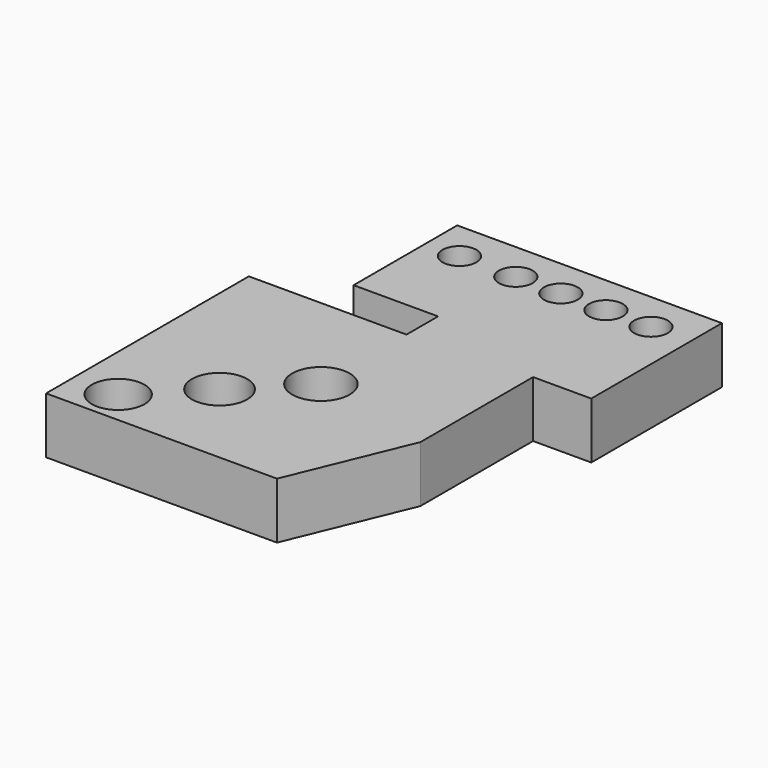
from build123d import *

# Parameters (mm, degrees)
F0_R     = 11.69535
F0_R_2   = 12.274467
F0_R_3   = 12.758653
F0_R_4   = 7.5
F1_DEPTH = 25


with BuildPart() as f1:
    # F0 (on Top) → F1 (new body)
    with BuildSketch(Plane.XY):
        Polygon((-70, 57.431057), (-70, -55.068943), (32.5, -55.068943), (54.177546, -2.568943), (54.177546, 59.931057), (80, 59.931057), (80, 132.431057), (-37.5, 132.431057), (-37.5, 74.931057), (0, 74.931057), (0, 57.431057), align=None)
        with Locations((-50, -40.068943)):
            Circle(F0_R, mode=Mode.SUBTRACT)
        with Locations((-25, -15.068943)):
            Circle(F0_R_2, mode=Mode.SUBTRACT)
        with Locations((0, 9.931057)):
            Circle(F0_R_3, mode=Mode.SUBTRACT)
        with Locations((-22.5, 114.931057)):
            Circle(F0_R_4, mode=Mode.SUBTRACT)
        with Locations((2.5, 114.931057)):
            Circle(F0_R_4, mode=Mode.SUBTRACT)
        with Locations((22.5, 114.931057)):
            Circle(F0_R_4, mode=Mode.SUBTRACT)
        with Locations((42.5, 114.931057)):
            Circle(F0_R_4, mode=Mode.SUBTRACT)
        with Locations((62.5, 114.931057)):
            Circle(F0_R_4, mode=Mode.SUBTRACT)
    extrude(amount=F1_DEPTH)


solid = f1.part
